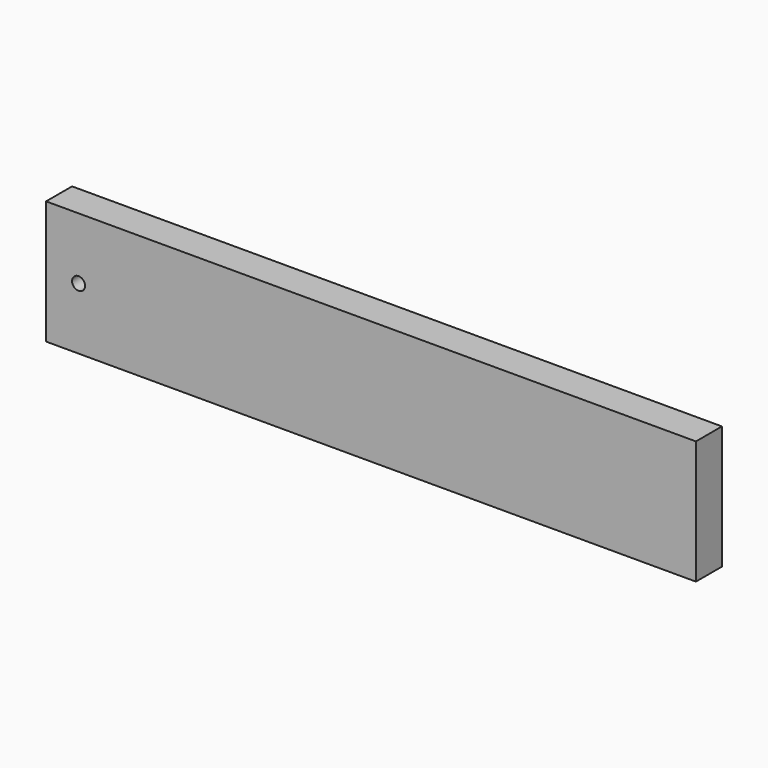
from build123d import *

# Parameters (mm, degrees)
F0_W     = 50
F0_H     = 190
F1_DEPTH = 500
F3_R     = 10
F4_DEPTH = 50.001


with BuildPart() as f1:
    # F0 (on Right) → F1 (new body, symmetric)
    with BuildSketch(Plane.YZ):
        Rectangle(F0_W, F0_H)
    extrude(amount=F1_DEPTH, both=True)

    # F3 (on face) → F4 (cut, through all)
    with BuildSketch(Plane.XZ.offset(25)):
        with Locations((-450, 0)):
            Circle(F3_R)
    extrude(amount=-F4_DEPTH, mode=Mode.SUBTRACT)


solid = f1.part
